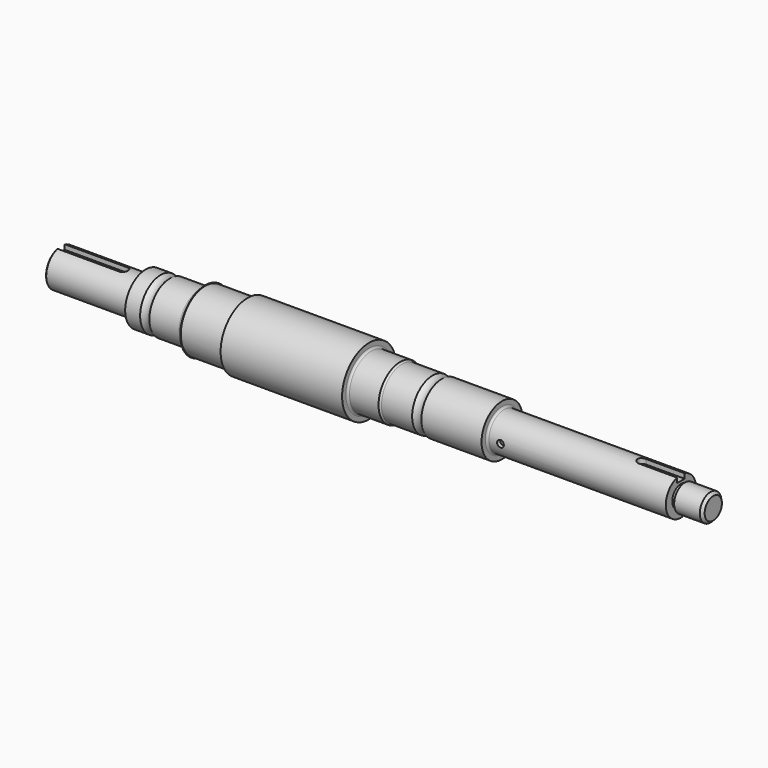
from build123d import *

# Parameters (mm, degrees)
F2_SIZE2  = 0.5
F2_SIZE   = 0.5
F3_SIZE2  = 2
F3_SIZE   = 2
F6_DEPTH  = 4
F8_DEPTH  = 4
F10_R     = 2.5
F11_DEPTH = 3
F13_R     = 2.5
F14_DEPTH = 3


with BuildPart() as f1:
    # F0 (on Front) → F1 (revolve)
    with BuildSketch(Plane.XZ):
        with BuildLine():
            Line((0, 14), (0, 0))
            Line((0, 0), (483.5, 0))
            Line((483.5, 0), (483.5, 10))
            Line((483.5, 10), (462.5, 10))
            Line((462.5, 10), (462.5, 8))
            Line((462.5, 8), (459.5, 8))
            Line((459.5, 8), (459.5, 14))
            Line((459.5, 14), (328.5, 14))
            ThreePointArc((328.5, 14), (327.43934, 14.43934), (327, 15.5))
            Line((327, 15.5), (327, 19))
            Line((327, 19), (282.405877, 19))
            ThreePointArc((282.405877, 19), (279, 18), (275.594123, 19))
            Line((275.594123, 19), (252.914214, 19))
            ThreePointArc((252.914214, 19), (252.048188, 19.275255), (251.5, 20))
            Line((251.5, 20), (230, 20))
            ThreePointArc((230, 20), (228.93934, 20.43934), (228.5, 21.5))
            Line((228.5, 21.5), (228.5, 25))
            Line((228.5, 25), (138.5, 25))
            Line((138.5, 25), (138.5, 24))
            ThreePointArc((138.5, 24), (138.06066, 22.93934), (137, 22.5))
            Line((137, 22.5), (107, 22.5))
            Line((107, 22.5), (107, 23))
            ThreePointArc((107, 23), (105.828427, 20.171573), (103, 19))
            Line((103, 19), (80.905877, 19))
            ThreePointArc((80.905877, 19), (77.5, 18), (74.094123, 19))
            Line((74.094123, 19), (63, 19))
            Line((63, 19), (63, 16))
            ThreePointArc((63, 16), (62.414214, 14.585786), (61, 14))
            Line((61, 14), (0, 14))
        make_face()
    revolve(axis=Axis((274.487168, 0, 0), (1, 0, 0)))

    # F2
    f2_edges = [f1.edges().sort_by_distance(p)[0] for p in [
        (0, 0, -14),
    ]]
    chamfer(f2_edges, length=F2_SIZE, length2=F2_SIZE2)

    # F3
    f3_edges = [f1.edges().sort_by_distance(p)[0] for p in [
        (483.5, 0, -10),
    ]]
    chamfer(f3_edges, length=F3_SIZE, length2=F3_SIZE2)

    # F5 (on offset) → F6 (cut)
    with BuildSketch(Plane.XY.offset(14)):
        with BuildLine():
            Line((0, -3.5), (46.5, -3.5))
            ThreePointArc((46.5, -3.5), (50, 0), (46.5, 3.5))
            Line((46.5, 3.5), (0, 3.5))
            Line((0, 3.5), (0, -3.5))
        make_face()
    extrude(amount=-F6_DEPTH, mode=Mode.SUBTRACT)

    # F7 (on offset) → F8 (cut)
    with BuildSketch(Plane.XY.offset(14)):
        with BuildLine():
            Line((459.5, 3.5), (431, 3.5))
            ThreePointArc((431, 3.5), (427.5, 0), (431, -3.5))
            Line((431, -3.5), (459.5, -3.5))
            Line((459.5, -3.5), (459.5, 3.5))
        make_face()
    extrude(amount=-F8_DEPTH, mode=Mode.SUBTRACT)

    # F10 (on offset) → F11 (cut)
    with BuildSketch(Plane.XZ.offset(14)):
        with Locations((337, 0)):
            Circle(F10_R)
    extrude(amount=-F11_DEPTH, mode=Mode.SUBTRACT)

    # F13 (on offset) → F14 (cut)
    with BuildSketch(Plane.XY.offset(-14)):
        with Locations((337, 0)):
            Circle(F13_R)
    extrude(amount=F14_DEPTH, mode=Mode.SUBTRACT)


solid = f1.part
